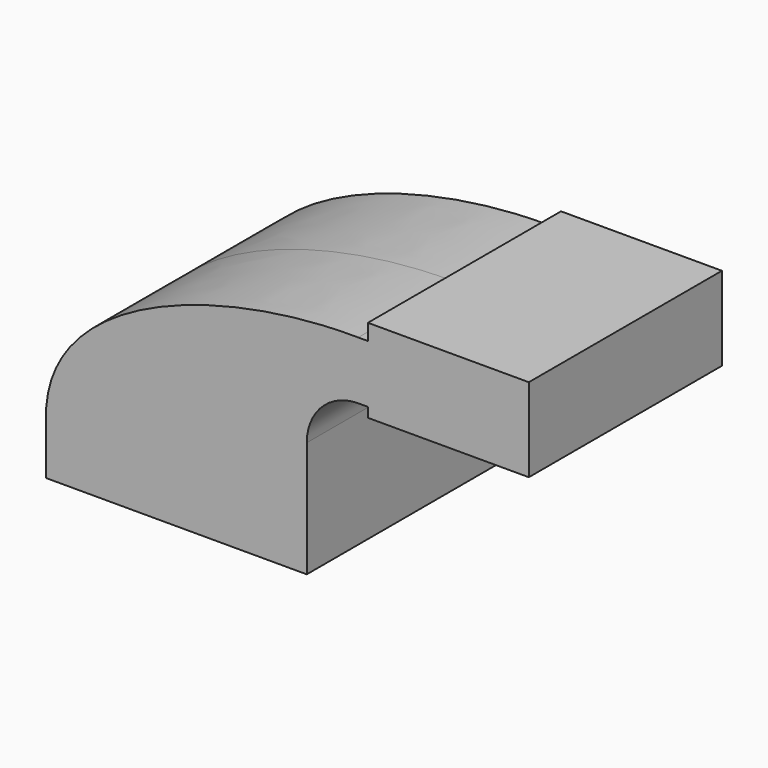
from build123d import *

# Parameters (mm, degrees)
F0_W     = 25
F0_H     = 5
F0_H_2   = 18
F0_H_3   = 3
F1_DEPTH = 37.5


with BuildPart() as f1:
    # F0 (on Front) → F1 (new body, symmetric)
    with BuildSketch(Plane.XZ):
        with BuildLine():
            Line((-40.5, 7.5), (22.5, 7.5))
            Line((22.5, 7.5), (22.5, 28.5))
            ThreePointArc((22.5, 28.5), (32.4583694397, 52.5416305603), (56.5, 62.5))
            add(Edge.make_bspline(
                [(-40.5, 7.5), (-42.4130707979, 45.3152880073), (14.8186171427, 63.0258098245), (56.5, 62.5)],
                knots=[0, 0, 0, 0, 111.5078472575, 111.5078472575, 111.5078472575, 111.5078472575], degree=3))
        make_face()
        with BuildLine():
            Line((22.5, 7.5), (40.5, 7.5))
            Line((40.5, 7.5), (40.5, 28.5))
            ThreePointArc((40.5, 28.5), (45.186291501, 39.813708499), (56.5, 44.5))
            Line((56.5, 44.5), (59.5, 44.5))
            Line((59.5, 44.5), (59.5, 62.5))
            Line((59.5, 62.5), (56.5, 62.5))
            ThreePointArc((56.5, 62.5), (32.4583694397, 52.5416305603), (22.5, 28.5))
            Line((22.5, 28.5), (22.5, 7.5))
        make_face()
        with Locations((72, 65)):
            Rectangle(F0_W, F0_H)
        with Locations((72, 53.5)):
            Rectangle(F0_W, F0_H_2)
        with Locations((72, 43)):
            Rectangle(F0_W, F0_H_3)
        Polygon((84.5, 62.5), (84.5, 44.5), (84.5, 41.5), (109.5, 41.5), (109.5, 67.5), (84.5, 67.5), align=None)
        Polygon((40.5, -7.5), (40.5, 7.5), (22.5, 7.5), (-40.5, 7.5), (-40.5, -7.5), align=None)
    extrude(amount=F1_DEPTH, both=True)


solid = f1.part
